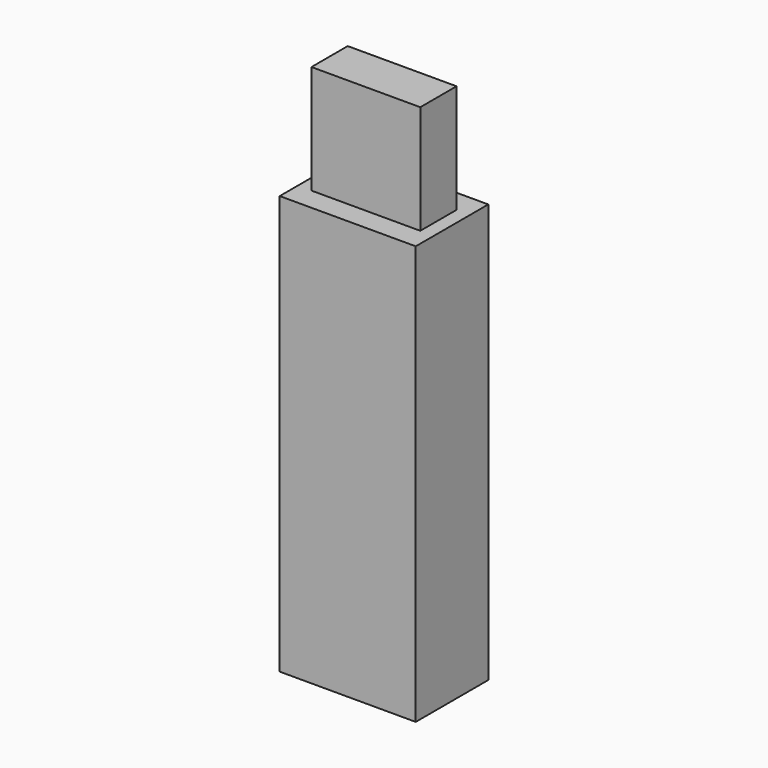
from build123d import *

# Parameters (mm, degrees)
F1_DEPTH = 10
F2_DEPTH = 10
F0_W     = 24
F0_H     = 24
F3_DEPTH = 5
F4_DEPTH = 5


with BuildPart() as f1:
    # F0 (on Front) → F1 (new body)
    with BuildSketch(Plane.XZ):
        Polygon((15, 46.178577), (12, 46.178577), (-12, 46.178577), (-15, 46.178577), (-15, -20.821423), (-15, -46.178577), (0, -46.178577), (15, -46.178577), (15, -20.821423), align=None)
    extrude(amount=F1_DEPTH)

    # F0 (on Front) → F2 (join)
    with BuildSketch(Plane.XZ):
        Polygon((15, 46.178577), (12, 46.178577), (-12, 46.178577), (-15, 46.178577), (-15, -20.821423), (-15, -46.178577), (0, -46.178577), (15, -46.178577), (15, -20.821423), align=None)
    extrude(amount=-F2_DEPTH)

    # F0 (on Front) → F3 (join)
    with BuildSketch(Plane.XZ):
        with Locations((0, 58.178577)):
            Rectangle(F0_W, F0_H)
    extrude(amount=-F3_DEPTH)

    # F0 (on Front) → F4 (join)
    with BuildSketch(Plane.XZ):
        with Locations((0, 58.178577)):
            Rectangle(F0_W, F0_H)
    extrude(amount=F4_DEPTH)


solid = f1.part
